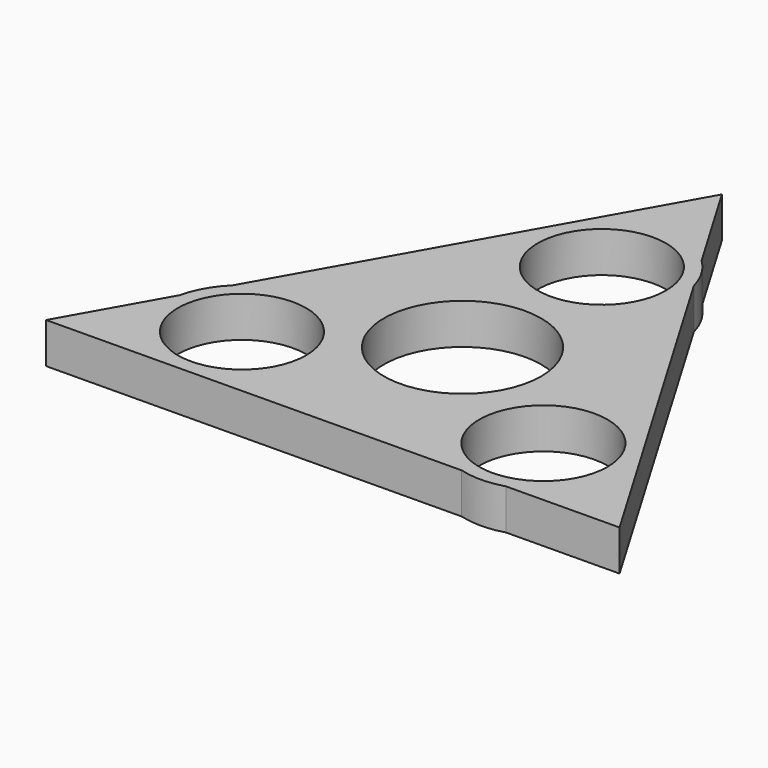
from build123d import *

# Parameters (mm, degrees)
F0_R     = 11.05
F0_R_2   = 13.55
F1_DEPTH = 7


with BuildPart() as f1:
    # F0 (on Top) → F1 (new body)
    with BuildSketch(Plane.XY):
        with BuildLine():
            ThreePointArc((9.3366927058, 39.8345466227), (-12.4522023386, 24.671969793), (13.55, 30.0147365779))
            ThreePointArc((13.55, 30.0147365779), (13.4383509122, 31.7506008471), (13.1052435777, 33.4578588192))
            Line((13.1052435777, 33.4578588192), (9.3366927058, 39.8345466227))
        make_face()
        with Locations((0, 30.0147365779)):
            Circle(F0_R, mode=Mode.SUBTRACT)
        with BuildLine():
            ThreePointArc((13.1052435777, 33.4578588192), (13.4383509122, 31.7506008471), (13.55, 30.0147365779))
            ThreePointArc((13.55, 30.0147365779), (-12.4522023386, 24.671969793), (9.3366927058, 39.8345466227))
            Line((9.3366927058, 39.8345466227), (-0.5756262346, 56.6069786372))
            Line((-0.5756262346, 56.6069786372), (-35.4637109435, -5.2654817113))
            ThreePointArc((-35.4637109435, -5.2654817113), (-20.7479078997, -2.5094129528), (-12.4766616182, -14.9888864664))
            ThreePointArc((-12.4766616182, -14.9888864664), (-27.5580450783, -28.4520719995), (-39.2305161863, -11.9457426075))
            Line((-39.2305161863, -11.9457426075), (-48.735268414, -28.8019962609))
            Line((-48.735268414, -28.8019962609), (22.3233113272, -28.0794142811))
            ThreePointArc((22.3233113272, -28.0794142811), (17.7660584346, -4.2357986208), (39.5109500096, -15.0268250814))
            ThreePointArc((39.5109500096, -15.0268250814), (36.8347466684, -23.1115666494), (29.8632679104, -28.002741812))
            Line((29.8632679104, -28.002741812), (49.3108946486, -27.8049823764))
            Line((49.3108946486, -27.8049823764), (13.1052435777, 33.4578588192))
        make_face()
        Circle(F0_R_2, mode=Mode.SUBTRACT)
        with BuildLine():
            Line((9.3366927058, 39.8345466227), (13.1052435777, 33.4578588192))
            ThreePointArc((13.1052435777, 33.4578588192), (11.6651473576, 36.9087076487), (9.3366927058, 39.8345466227))
        make_face()
        with BuildLine():
            Line((22.3233113272, -28.0794142811), (29.8632679104, -28.002741812))
            ThreePointArc((29.8632679104, -28.002741812), (36.8347466684, -23.1115666494), (39.5109500096, -15.0268250814))
            ThreePointArc((39.5109500096, -15.0268250814), (17.7660584346, -4.2357986208), (22.3233113272, -28.0794142811))
        make_face()
        with Locations((25.9609500096, -15.0268250814)):
            Circle(F0_R, mode=Mode.SUBTRACT)
        with BuildLine():
            ThreePointArc((22.3233113272, -28.0794142811), (26.0987304111, -28.5761245674), (29.8632679104, -28.002741812))
            Line((29.8632679104, -28.002741812), (22.3233113272, -28.0794142811))
        make_face()
        with BuildLine():
            Line((-39.2305161863, -11.9457426075), (-35.4637109435, -5.2654817113))
            ThreePointArc((-35.4637109435, -5.2654817113), (-37.8295893773, -8.3335580513), (-39.2305161863, -11.9457426075))
        make_face()
        with BuildLine():
            ThreePointArc((-12.4766616182, -14.9888864664), (-20.7479078997, -2.5094129528), (-35.4637109435, -5.2654817113))
            Line((-35.4637109435, -5.2654817113), (-39.2305161863, -11.9457426075))
            ThreePointArc((-39.2305161863, -11.9457426075), (-27.5580450783, -28.4520719995), (-12.4766616182, -14.9888864664))
        make_face()
        with Locations((-26.0266616182, -14.9888864664)):
            Circle(F0_R, mode=Mode.SUBTRACT)
    extrude(amount=F1_DEPTH)


solid = f1.part
